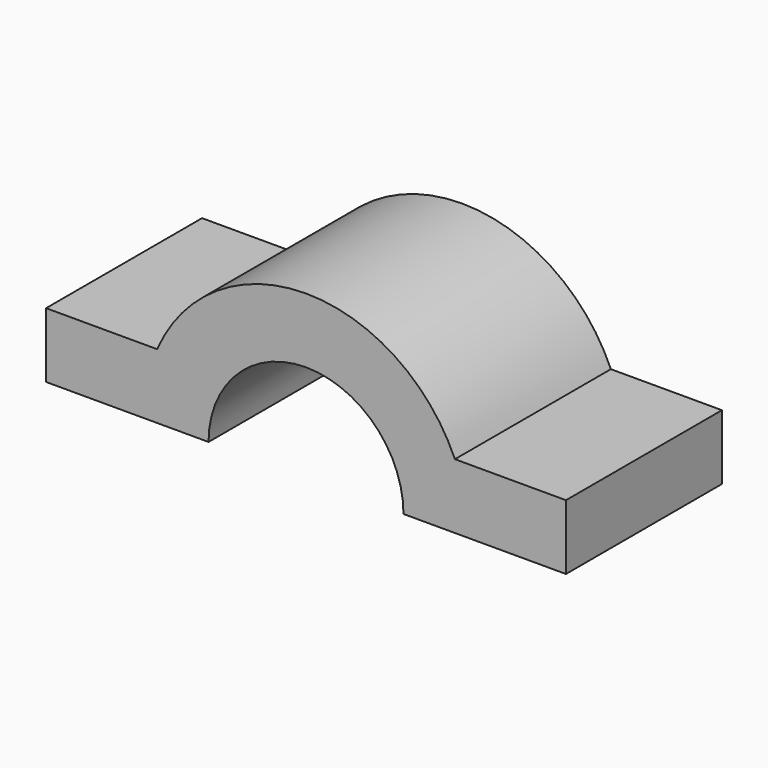
from build123d import *

# Parameters (mm, degrees)
F1_DEPTH = 19.05


with BuildPart() as f1:
    # F0 (on Front) → F1 (new body)
    with BuildSketch(Plane.XZ):
        with BuildLine():
            Line((34.585893, -2.578454), (34.585893, 3.771546))
            Line((34.585893, 3.771546), (23.73557, 3.771546))
            ThreePointArc((23.73557, 3.771546), (24.72603, 0.664961), (25.060893, -2.578454))
            Line((25.060893, -2.578454), (34.585893, -2.578454))
        make_face()
        with BuildLine():
            ThreePointArc((25.060893, -2.578454), (24.72603, 0.664961), (23.73557, 3.771546))
            Line((23.73557, 3.771546), (16.285408, 3.771546))
            ThreePointArc((16.285408, 3.771546), (18.083884, 0.820276), (18.710893, -2.578454))
            Line((18.710893, -2.578454), (25.060893, -2.578454))
        make_face()
        with BuildLine():
            Line((16.285408, 3.771546), (23.73557, 3.771546))
            ThreePointArc((23.73557, 3.771546), (9.185893, 13.296546), (-5.363785, 3.771546))
            Line((-5.363785, 3.771546), (2.086377, 3.771546))
            ThreePointArc((2.086377, 3.771546), (9.185893, 6.946546), (16.285408, 3.771546))
        make_face()
        with BuildLine():
            Line((2.086377, 3.771546), (-5.363785, 3.771546))
            ThreePointArc((-5.363785, 3.771546), (-6.354245, 0.664961), (-6.689107, -2.578454))
            Line((-6.689107, -2.578454), (-0.339107, -2.578454))
            ThreePointArc((-0.339107, -2.578454), (0.287901, 0.820276), (2.086377, 3.771546))
        make_face()
        with BuildLine():
            ThreePointArc((-6.689107, -2.578454), (-6.354245, 0.664961), (-5.363785, 3.771546))
            Line((-5.363785, 3.771546), (-16.214107, 3.771546))
            Line((-16.214107, 3.771546), (-16.214107, -2.578454))
            Line((-16.214107, -2.578454), (-6.689107, -2.578454))
        make_face()
    extrude(amount=F1_DEPTH)


solid = f1.part
